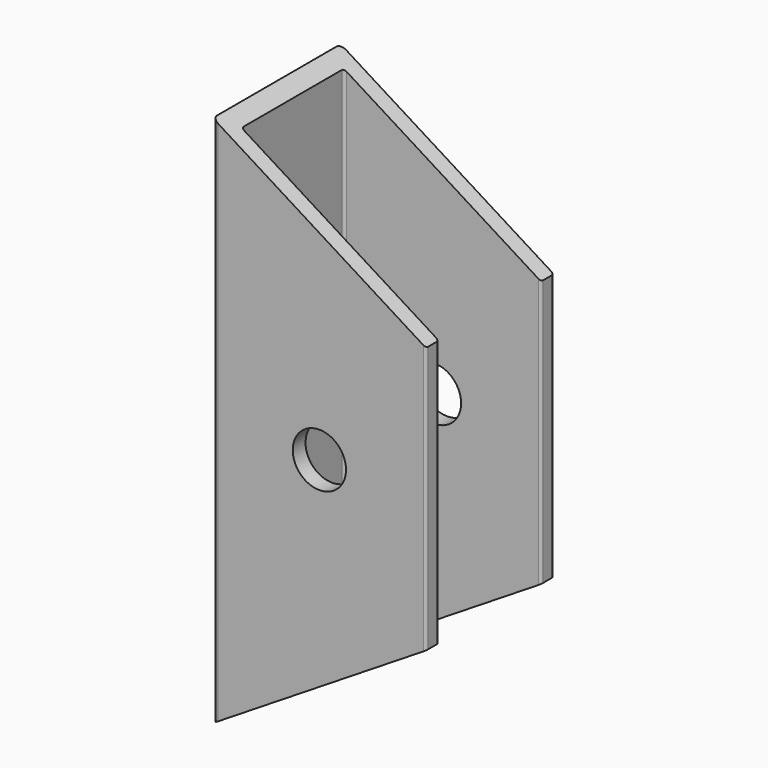
from build123d import *

# Parameters (mm, degrees)
F1_DEPTH      = 50
F1_DEPTH_BACK = 50
F2_R          = 5
F3_DEPTH      = 25
F3_DEPTH_BACK = 25


with BuildPart() as f1:
    # F0 (on Top) → F1 (new body, two sides)
    with BuildSketch(Plane.XY) as f1_sk:
        with BuildLine():
            ThreePointArc((20, 14.5), (19.8535533906, 14.8535533906), (19.5, 15))
            Line((19.5, 15), (-19, 15))
            ThreePointArc((-19, 15), (-19.7071067812, 14.7071067812), (-20, 14))
            Line((-20, 14), (-20, -14))
            ThreePointArc((-20, -14), (-19.7071067812, -14.7071067812), (-19, -15))
            Line((-19, -15), (19.5, -15))
            ThreePointArc((19.5, -15), (19.8535533906, -14.8535533906), (20, -14.5))
            Line((20, -14.5), (20, -12.5))
            ThreePointArc((20, -12.5), (19.8535533906, -12.1464466094), (19.5, -12))
            Line((19.5, -12), (-16.5, -12))
            ThreePointArc((-16.5, -12), (-16.8535533906, -11.8535533906), (-17, -11.5))
            Line((-17, -11.5), (-17, 11.5))
            ThreePointArc((-17, 11.5), (-16.8535533906, 11.8535533906), (-16.5, 12))
            Line((-16.5, 12), (19.5, 12))
            ThreePointArc((19.5, 12), (19.8535533906, 12.1464466094), (20, 12.5))
            Line((20, 12.5), (20, 14.5))
        make_face()
    extrude(amount=F1_DEPTH)
    extrude(f1_sk.sketch, amount=-F1_DEPTH_BACK)

    # F2 (on Front) → F3 (cut, two sides)
    with BuildSketch(Plane.XZ) as f3_sk:
        Polygon((20, 50), (-20, 50), (20, 25), align=None)
        Polygon((20, -25), (-20, -50), (20, -50), align=None)
        Circle(F2_R)
    extrude(amount=-F3_DEPTH, mode=Mode.SUBTRACT)
    extrude(f3_sk.sketch, amount=F3_DEPTH_BACK, mode=Mode.SUBTRACT)


solid = f1.part
